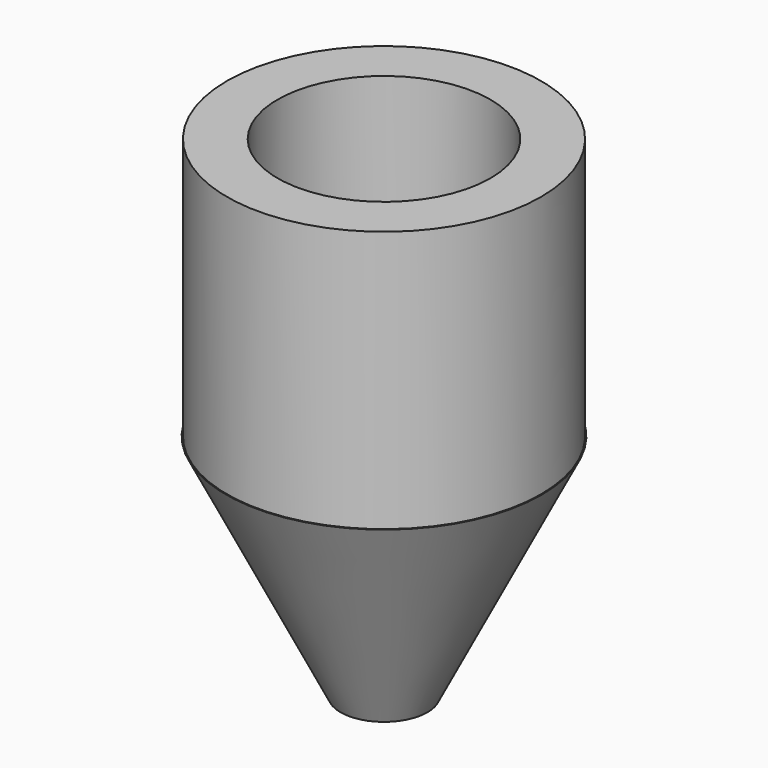
from build123d import *

# Parameters (mm, degrees)
F0_R     = 11.43
F1_DEPTH = 19.05
F2_R     = 7.749073
F3_DEPTH = 19.05


with BuildPart() as f1:
    # F0 (on Top) → F1 (new body)
    with BuildSketch(Plane.XY):
        Circle(F0_R)
    extrude(amount=F1_DEPTH)

    # F2 (on face) → F3 (cut)
    with BuildSketch(Plane(origin=(0, 0, 0), x_dir=(1, 0, 0), z_dir=(0, 0, -1))):
        Circle(F2_R)
    extrude(amount=-F3_DEPTH, mode=Mode.SUBTRACT)

    # F4 (on Front) → F5 (revolve)
    with BuildSketch(Plane.XZ):
        Polygon((0, -22.978624), (11.502104, 0), (0, 0), align=None)
    revolve(axis=Axis((0, 0, -11.489312), (0, 0, 1)))

    # F6 (on Right) → F7 (revolve, cut)
    with BuildSketch(Plane.YZ):
        Polygon((0, 0), (-8.085498, 0), (0, -27.366927), align=None)
    revolve(axis=Axis((0, 0, -13.683463), (0, 0, 1)), mode=Mode.SUBTRACT)


solid = f1.part
